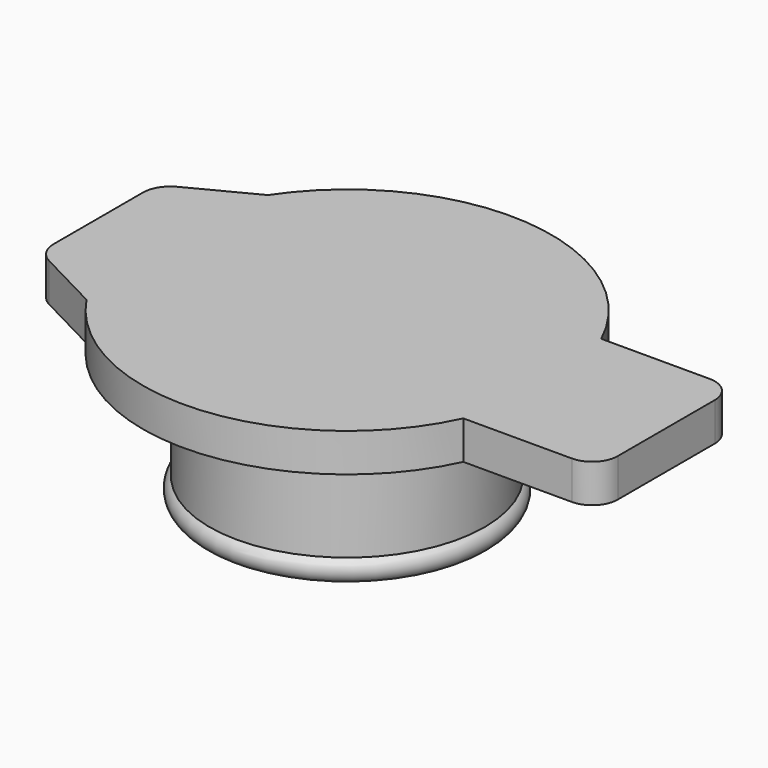
from build123d import *

# Parameters (mm, degrees)
PAD_DEPTH = 1.2


with BuildPart() as cup_inner:
    # Sketch → Revolution001 (revolve)
    with BuildSketch(Plane.XZ):
        with BuildLine():
            ThreePointArc((4.018909, 34.9), (4.45676, 35.140127), (4.309919, 35.617424))
            Line((4.309919, 35.617424), (4.309919, 38.9))
            Line((4.309919, 38.9), (0, 38.9))
            Line((0, 38.630993), (0, 38.9))
            Line((0, 38.630993), (3.790019, 38.630993))
            Line((3.790019, 38.630993), (3.790019, 34.9))
            Line((3.790019, 34.9), (4.018909, 34.9))
        make_face()
    revolve(axis=Axis((0, 0, 0), (0, 0, 1)))


with BuildPart() as cup_full:
    # Sketch002 → Pad (new body)
    with BuildSketch(Plane.XY):
        with BuildLine():
            ThreePointArc((-5.324523, -3.550979), (0.488034, -6.381365), (5.802586, -2.7))
            Line((5.802586, -2.7), (9.2, -2.7))
            ThreePointArc((9.2, -2.7), (9.765685, -2.465685), (10, -1.9))
            Line((10, -1.9), (10, 0))
            Line((10, 1.9), (10, 0))
            ThreePointArc((10, 1.9), (9.765685, 2.465685), (9.2, 2.7))
            Line((5.802586, 2.7), (9.2, 2.7))
            ThreePointArc((5.802586, 2.7), (0.488034, 6.381365), (-5.324523, 3.550979))
            Line((-5.324523, 3.550979), (-7.330632, 2.509835))
            ThreePointArc((-7.330632, 2.509835), (-7.669656, 2.192899), (-7.794795, 1.745992))
            Line((-7.794795, 0), (-7.794795, 1.745992))
            Line((-7.794795, -1.745992), (-7.794795, 0))
            ThreePointArc((-7.794795, -1.745992), (-7.669656, -2.192899), (-7.330632, -2.509835))
            Line((-5.324523, -3.550979), (-7.330632, -2.509835))
        make_face()
    extrude(amount=PAD_DEPTH)


with BuildPart() as cup_full_1:
    # Body002 placement: moved
    add(cup_full.part.moved(Location((0, 0, 39))))

    # Fusion001: union Cup inner
    add(cup_inner.part)


solid = cup_full_1.part
